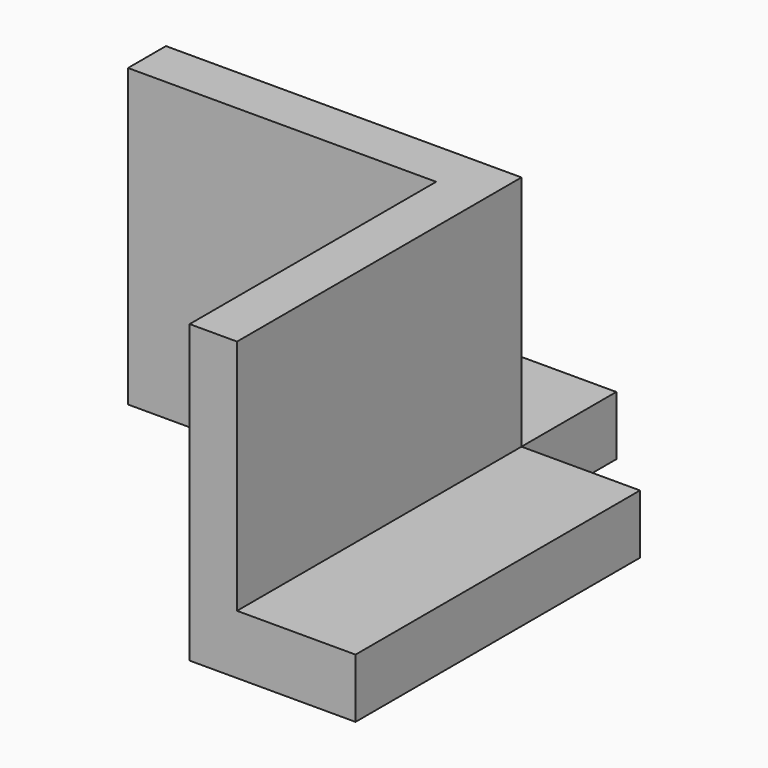
from build123d import *

# Parameters (mm, degrees)
F0_W     = 30
F0_H     = 10
F1_DEPTH = 5
F0_W_2   = 10
F0_H_2   = 30
F2_DEPTH = 25


with BuildPart() as f1:
    # F0 (on Top) → F1 (new body)
    with BuildSketch(Plane.XY):
        with Locations((-25, 35)):
            Rectangle(F0_W, F0_H)
    extrude(amount=F1_DEPTH)



with BuildPart() as f1b:
    # F0 (on Top) → F1, piece 2 (new body)
    with BuildSketch(Plane.XY):
        with Locations((-5, 15)):
            Rectangle(F0_W_2, F0_H_2)
    extrude(amount=F1_DEPTH)


with BuildPart() as f1_1:
    add(f1.part)

    add(f1b.part)  # F2 merges F1b
    # F0 (on Top) → F2 (join)
    with BuildSketch(Plane.XY):
        Polygon((-14, 0), (-10, 0), (-10, 30), (-40, 30), (-40, 26), (-14, 26), align=None)
    extrude(amount=F2_DEPTH)


solid = f1_1.part
